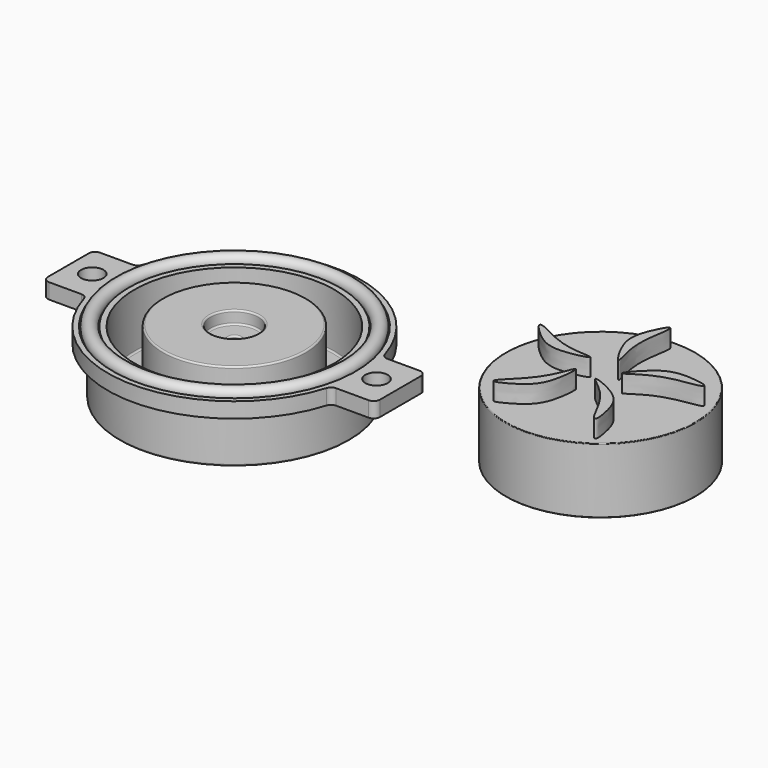
from build123d import *

# Parameters (mm, degrees)
F0_R      = 1.75
F1_DEPTH  = 2.4
F2_R      = 1
F3_R      = 18
F4_DEPTH  = 7.5
F5_R      = 15.64
F6_DEPTH  = 8.7
F7_R      = 11.225
F8_DEPTH  = 9
F9_R      = 3.75
F10_DEPTH = 2
F11_R     = 0.8
F12_DEPTH = 5
F13_R     = 0.25
F14_W     = 2.5
F14_H     = 1.5
F18_R     = 1.1
F21_R     = 14.86
F22_DEPTH = 10.23
F23_R     = 11.86
F24_DEPTH = 9
F25_R     = 0.1
F28_DEPTH = 2.75
F29_COUNT = 5


with BuildPart() as f1:
    # F0 (on Top) → F1 (new body)
    with BuildSketch(Plane.XY):
        with BuildLine():
            Line((-26, -5), (-19.1737900531, -5))
            ThreePointArc((-19.1737900531, -5), (0, -19.815), (19.1737900531, -5))
            Line((19.1737900531, -5), (26, -5))
            Line((26, -5), (26, 5))
            Line((26, 5), (19.1737900531, 5))
            ThreePointArc((19.1737900531, 5), (0, 19.815), (-19.1737900531, 5))
            Line((-19.1737900531, 5), (-26, 5))
            Line((-26, 5), (-26, -5))
        make_face()
        with Locations((-22.25, 0)):
            Circle(F0_R, mode=Mode.SUBTRACT)
        with Locations((22.25, 0)):
            Circle(F0_R, mode=Mode.SUBTRACT)
    extrude(amount=-F1_DEPTH)

    # F2
    f2_edges = [f1.edges().sort_by_distance(p)[0] for p in [
        (26, -5, -1.2),
        (19.17379, -5, -1.2),
        (26, 5, -1.2),
        (19.17379, 5, -1.2),
        (-19.17379, 5, -1.2),
        (-26, 5, -1.2),
        (-26, -5, -1.2),
        (-19.17379, -5, -1.2),
    ]]
    fillet(f2_edges, radius=F2_R)

    # F3 (on face) → F4 (join)
    with BuildSketch(Plane(origin=(0, 0, -2.4), x_dir=(1, 0, 0), z_dir=(0, 0, -1))):
        Circle(F3_R)
    extrude(amount=F4_DEPTH)

    # F5 (on face) → F6 (cut)
    with BuildSketch(Plane.XY):
        Circle(F5_R)
    extrude(amount=-F6_DEPTH, mode=Mode.SUBTRACT)

    # F7 (on face) → F8 (join)
    with BuildSketch(Plane.XY.offset(-8.7)):
        Circle(F7_R)
    extrude(amount=F8_DEPTH)

    # F9 (on face) → F10 (cut)
    with BuildSketch(Plane.XY.offset(0.3)):
        Circle(F9_R)
    extrude(amount=-F10_DEPTH, mode=Mode.SUBTRACT)

    # F11 (on face) → F12 (cut)
    with BuildSketch(Plane.XY.offset(-1.7)):
        Circle(F11_R)
    extrude(amount=-F12_DEPTH, mode=Mode.SUBTRACT)

    # F13
    f13_edges = [f1.edges().sort_by_distance(p)[0] for p in [
        (-18, 0, -9.9),
        (-18, 0, -2.4),
        (-15.64, 0, -8.7),
        (-11.225, 0, -8.7),
        (-11.225, 0, 0.3),
        (-3.75, 0, 0.3),
        (-3.75, 0, -1.7),
        (-0.8, 0, -1.7),
    ]]
    fillet(f13_edges, radius=F13_R)

    # F14 (on Right) → F16 (revolve, cut)
    with BuildSketch(Plane.YZ):
        with Locations((17.765, 0)):
            Rectangle(F14_W, F14_H)
    revolve(axis=Axis((0, 0, -5.8747697622), (0, 0, -1)), mode=Mode.SUBTRACT)


with BuildPart() as f20:
    # F18 (on Front) → F20 (revolve)
    with BuildSketch(Plane.XZ):
        with Locations((17.75, 0)):
            Circle(F18_R)
    revolve(axis=Axis((0, 0, -3.7356289104), (0, 0, -1)))


with BuildPart() as f22:
    # F21 (on Top) → F22 (new body)
    with BuildSketch(Plane.XY):
        with Locations((57.3223626233, 0)):
            Circle(F21_R)
    extrude(amount=F22_DEPTH)

    # F23 (on face) → F24 (cut)
    with BuildSketch(Plane(origin=(0, 0, 0), x_dir=(1, 0, 0), z_dir=(0, 0, -1))):
        with Locations((57.3223626233, 0)):
            Circle(F23_R)
    extrude(amount=-F24_DEPTH, mode=Mode.SUBTRACT)

    # F25
    f25_edges = [f22.edges().sort_by_distance(p)[0] for p in [
        (42.462363, 0, 10.23),
        (42.462363, 0, 0),
        (45.462363, 0, 0),
        (45.462363, 0, 9),
    ]]
    fillet(f25_edges, radius=F25_R)

    # F27 (on face) → F28 (join)
    with BuildSketch(Plane.XY.offset(10.23)):
        with BuildLine():
            add(Edge.make_bspline(
                [(60.2946951985, 0.4849924881), (60.1961369444, 0.7292032142), (63.4332551793, 4.6522597797), (67.0538077313, 4.9464313407), (70.3111938877, 4.443711012), (70.1544795963, 3.7139052901), (66.0762512799, 3.3587653978), (62.6438476061, 2.0015472244), (60.3643449041, 0.3124122682), (60.2946951985, 0.4849924881)],
                knots=[0, 0, 0, 0, 0.1766899144, 0.3515342622, 0.4905603141, 0.533591255, 0.6944178059, 0.87513577, 1, 1, 1, 1], degree=3))
        make_face()
    extrude(amount=F28_DEPTH)

    # F29: F22 ×5 about axis
    f29_axis = Axis((57.3223626233, 0, 6.2144845724), (0, 0, -1))


with BuildPart() as f22_1:
    add(f22.part)
    for i in range(1, F29_COUNT):
        add(f22.part.rotate(f29_axis, i * 360 / F29_COUNT))


solid = Compound([f1.part, f20.part, f22_1.part])
